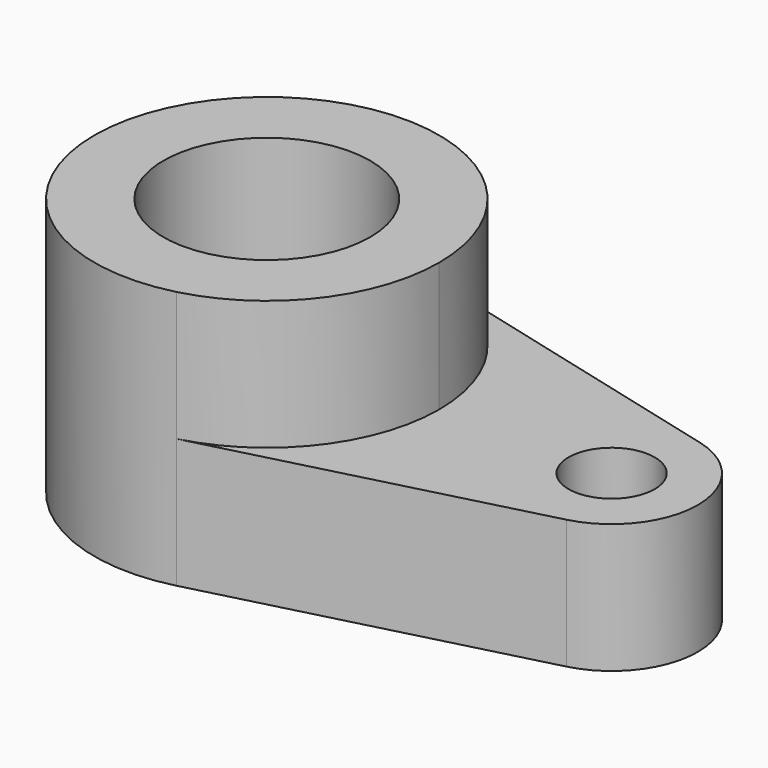
from build123d import *

# Parameters (mm, degrees)
F0_R     = 12
F0_R_2   = 5
F1_DEPTH = 15
F2_R     = 12
F3_DEPTH = 15


with BuildPart() as f1:
    # F0 (on Top) → F1 (new body)
    with BuildSketch(Plane.XY):
        with BuildLine():
            Line((42.5, 9.682458), (5, 19.364917))
            ThreePointArc((5, 19.364917), (-20, 0), (5, -19.364917))
            Line((5, -19.364917), (42.5, -9.682458))
            ThreePointArc((42.5, -9.682458), (50, 0), (42.5, 9.682458))
        make_face()
        Circle(F0_R, mode=Mode.SUBTRACT)
        with Locations((40, 0)):
            Circle(F0_R_2, mode=Mode.SUBTRACT)
    extrude(amount=F1_DEPTH)

    # F2 (on face) → F3 (join)
    with BuildSketch(Plane.XY.offset(15)):
        with BuildLine():
            ThreePointArc((5, -19.364917), (15.811388, -12.247449), (20, 0))
            ThreePointArc((20, 0), (15.811388, 12.247449), (5, 19.364917))
            ThreePointArc((5, 19.364917), (-20, 0), (5, -19.364917))
        make_face()
        Circle(F2_R, mode=Mode.SUBTRACT)
    extrude(amount=F3_DEPTH)


solid = f1.part
